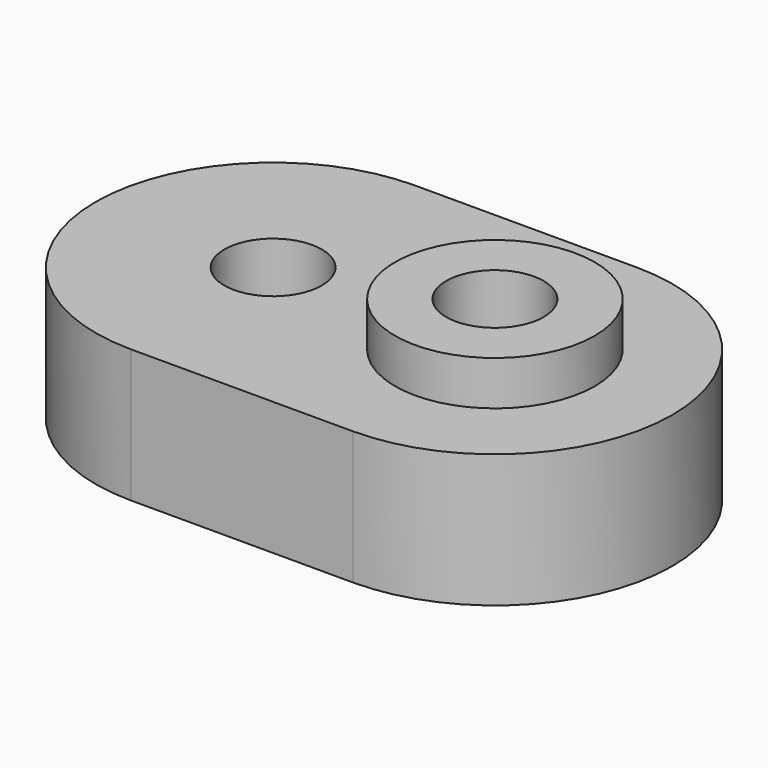
from build123d import *

# Parameters (mm, degrees)
CYLINDER011_R     = 2.2
CYLINDER011_DEPTH = 10
CYLINDER012_R     = 2.2
CYLINDER012_DEPTH = 10
PAD015_DEPTH      = 6
CYLINDER013_R     = 4.5
CYLINDER013_DEPTH = 8


with BuildPart() as obj1:
    # Cylinder011 → Cylinder011 (new body)
    with BuildSketch(Plane(origin=(5, 0, -2), x_dir=(1, 0, 0), z_dir=(0, 0, 1))):
        Circle(CYLINDER011_R)
    extrude(amount=CYLINDER011_DEPTH)


with BuildPart() as double_hole_fusion:
    # Cylinder012 → Cylinder012 (new body)
    with BuildSketch(Plane(origin=(-5, 0, -2), x_dir=(1, 0, 0), z_dir=(0, 0, 1))):
        Circle(CYLINDER012_R)
    extrude(amount=CYLINDER012_DEPTH)

    # Fusion010: union obj1
    add(obj1.part)


with BuildPart() as body016:
    # Sketch016 → Pad015 (new body)
    with BuildSketch(Plane.XY):
        with BuildLine():
            Line((-5, 8), (5, 8))
            ThreePointArc((5, -8), (13, 0), (5, 8))
            Line((-5, -8), (5, -8))
            ThreePointArc((-5, 8), (-13, 0), (-5, -8))
        make_face()
    extrude(amount=PAD015_DEPTH)


with BuildPart() as simple_idle_linkage_cut:
    # Cylinder013 → Cylinder013 (new body)
    with BuildSketch(Plane(origin=(5, 0, 0), x_dir=(1, 0, 0), z_dir=(0, 0, 1))):
        Circle(CYLINDER013_R)
    extrude(amount=CYLINDER013_DEPTH)

    # Fusion011: union Body016
    add(body016.part)

    # Cut004: cut double hole fusion
    add(double_hole_fusion.part, mode=Mode.SUBTRACT)


solid = simple_idle_linkage_cut.part
